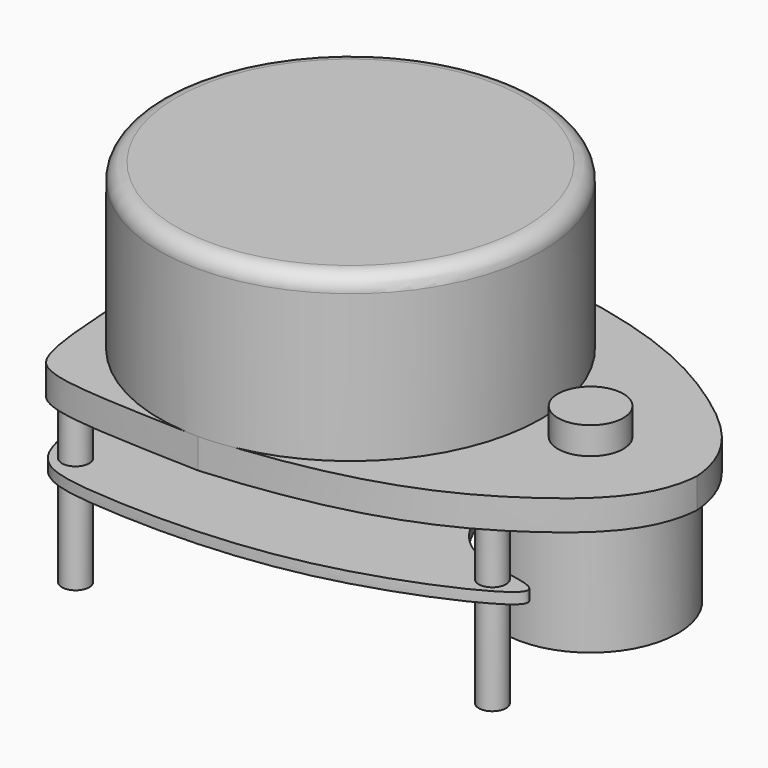
from build123d import *

# Parameters (mm, degrees)
PAD_DEPTH     = 5.5
SKETCH001_R   = 35
PAD001_DEPTH  = 30
SKETCH002_R   = 16
PAD002_DEPTH  = 21
SKETCH003_R   = 2.5
SKETCH003_R_2 = 1.5
PAD003_DEPTH  = 30
SKETCH004_R   = 6
PAD004_DEPTH  = 5
FILLET_R      = 3
PAD005_DEPTH  = 2


with BuildPart() as part:
    # Sketch → Pad (new body)
    with BuildSketch(Plane.XY):
        with BuildLine():
            add(Edge.make_bspline(
                [(-7, 28), (-6.039086, 55.195705), (-4.040394, 61.79393), (9.82819, 62.345387), (28, 63)],
                knots=[0, 0, 0, 0, 0.5, 1, 1, 1, 1], degree=3))
            add(Edge.make_bspline(
                [(28, 63), (54.722675, 61.004459), (80.098564, 48.331497), (90.8582, 36.542683), (91.5, 28)],
                knots=[0, 0, 0, 0, 0.5, 1, 1, 1, 1], degree=3))
            add(Edge.make_bspline(
                [(28, -7), (54.722675, -5.004459), (80.098564, 7.668503), (90.8582, 19.457317), (91.5, 28)],
                knots=[0, 0, 0, 0, 0.5, 1, 1, 1, 1], degree=3))
            add(Edge.make_bspline(
                [(-7, 28), (-6.039086, 0.804295), (-4.040394, -5.79393), (9.82819, -6.345387), (28, -7)],
                knots=[0, 0, 0, 0, 0.5, 1, 1, 1, 1], degree=3))
        make_face()
    extrude(amount=PAD_DEPTH)

    # Sketch001 (on Face6 of Pad) → Pad001 (join)
    with BuildSketch(Plane.XY.offset(5.5)):
        with Locations((28, 28)):
            Circle(SKETCH001_R)
    extrude(amount=PAD001_DEPTH)

    # Sketch002 (on Face4 of Pad001) → Pad002 (join)
    with BuildSketch(Plane(origin=(0, 0, 0), x_dir=(1, 0, 0), z_dir=(0, 0, -1))):
        with Locations((72, -28)):
            Circle(SKETCH002_R)
    extrude(amount=PAD002_DEPTH)

    # Sketch003 (on Face4 of Pad002) → Pad003 (join)
    with BuildSketch(Plane(origin=(0, 0, 0), x_dir=(1, 0, 0), z_dir=(0, 0, -1))):
        Circle(SKETCH003_R)
        Circle(SKETCH003_R_2, mode=Mode.SUBTRACT)
        with Locations((70, -8)):
            Circle(SKETCH003_R)
        with Locations((70, -8)):
            Circle(SKETCH003_R_2, mode=Mode.SUBTRACT)
        with Locations((0, -56)):
            Circle(SKETCH003_R)
        with Locations((0, -56)):
            Circle(SKETCH003_R_2, mode=Mode.SUBTRACT)
        with Locations((70, -48)):
            Circle(SKETCH003_R)
        with Locations((70, -48)):
            Circle(SKETCH003_R_2, mode=Mode.SUBTRACT)
    extrude(amount=PAD003_DEPTH)

    # Sketch004 (on Face13 of Pad003) → Pad004 (join)
    with BuildSketch(Plane.XY.offset(5.5)):
        with Locations((72, 28)):
            Circle(SKETCH004_R)
    extrude(amount=PAD004_DEPTH)

    # Fillet
    fillet_edges = [part.edges().sort_by_distance(p)[0] for p in [
        (-7, 28, 35.5),
    ]]
    fillet(fillet_edges, radius=FILLET_R)

    # Sketch005 → Pad005 (join)
    with BuildSketch(Plane(origin=(0, 0, -10), x_dir=(1, 0, 0), z_dir=(0, 0, -1))):
        with BuildLine():
            add(Edge.make_bspline(
                [(57.55377, -18.51923), (59.236149, -15.627762), (63.930575, -10.384004), (85.617861, -10.265032), (45.827823, 7.676693), (4.076648, 7.002047), (-6.727711, 3.374821), (-6.759401, -27.232612), (-6.729157, -58.53675), (4.116192, -63.406792), (45.436606, -63.163045), (85.441261, -45.633281), (63.916769, -45.641539), (55.877811, -36.840267), (53.836306, -27.732812), (55.871392, -21.410698), (57.55377, -18.51923)],
                knots=[0, 0, 0, 0, 0.071429, 0.142857, 0.214286, 0.285714, 0.357143, 0.428571, 0.5, 0.571429, 0.642857, 0.714286, 0.785714, 0.857143, 0.928571, 1, 1, 1, 1], degree=3))
        make_face()
    extrude(amount=PAD005_DEPTH)


solid = part.part
